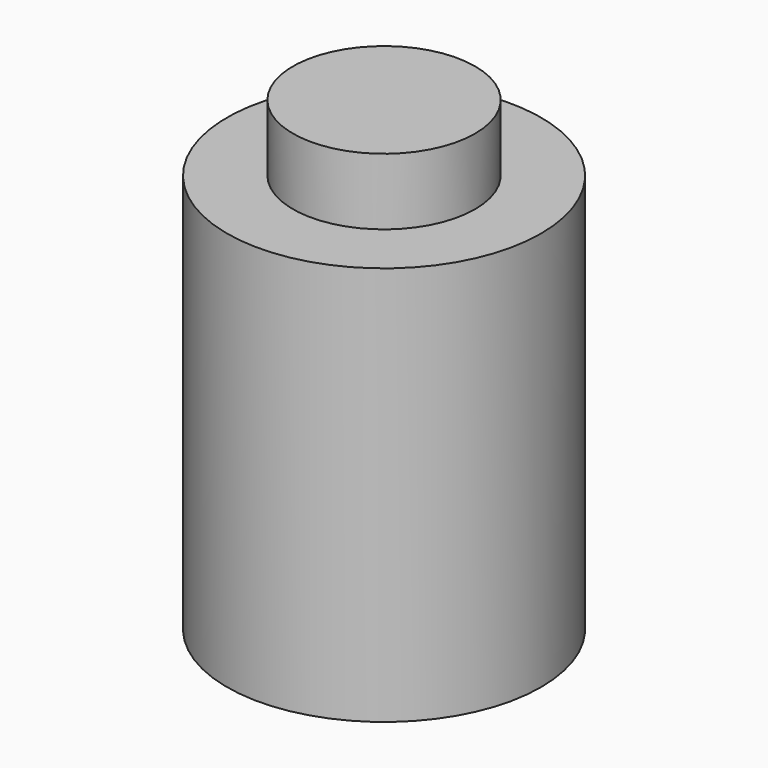
from build123d import *

# Parameters (mm, degrees)
F0_R     = 59.9289623747
F0_R_2   = 51.785848785
F1_DEPTH = 127
F3_DEPTH = 101.6
F4_DEPTH = 127
F5_R     = 34.7688744337
F6_DEPTH = 177.8


with BuildPart() as f1:
    # F0 (on Top) → F1 (new body)
    with BuildSketch(Plane.XY):
        Circle(F0_R)
        Circle(F0_R_2, mode=Mode.SUBTRACT)
        Circle(F0_R_2)
    extrude(amount=F1_DEPTH)

    # F3 (cut): a face of the model
    f3_faces = [f1.faces().sort_by_distance(p)[0] for p in [
        (0, 0, 127),
    ]]
    extrude(f3_faces, amount=-F3_DEPTH, mode=Mode.SUBTRACT)

    # F4 (add): a face of the model
    f4_faces = [f1.faces().sort_by_distance(p)[0] for p in [
        (0, 0, 25.4),
    ]]
    extrude(f4_faces, amount=F4_DEPTH)

    # F5 (on Top) → F6 (join)
    with BuildSketch(Plane.XY):
        Circle(F5_R)
    extrude(amount=F6_DEPTH)


solid = f1.part
